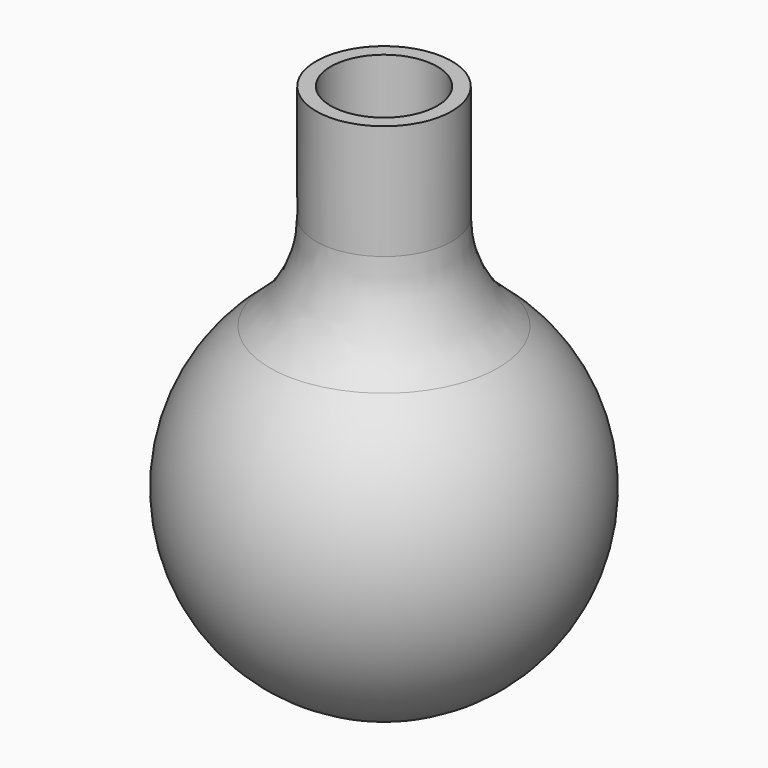
from build123d import *

# Parameters (mm, degrees)
F2_R = 25.4


with BuildPart() as f1:
    # F0 (on Right) → F1 (revolve)
    with BuildSketch(Plane.YZ):
        with BuildLine():
            Line((-13.977719, 0), (0, 0))
            Line((0, 0), (0, 3))
            Line((0, 3), (-13.387913, 3))
            ThreePointArc((-13.387913, 3), (-34.657963, 34.648403), (-13.977719, 66.685318))
            Line((-13.977719, 66.685318), (-13.977719, 12))
            Line((-13.977719, 12), (-10.977719, 12))
            Line((-10.977719, 12), (-10.977719, 107.869832))
            Line((-10.977719, 107.869832), (-13.977719, 107.869832))
            Line((-13.977719, 107.869832), (-13.977719, 69.938758))
            ThreePointArc((-13.977719, 69.938758), (-37.659449, 34.969379), (-13.977719, 0))
        make_face()
    revolve(axis=Axis((0, 0, 1.5), (0, 0, 1)))

    # F2
    f2_edges = [f1.edges().sort_by_distance(p)[0] for p in [
        (0, 13.977719, 69.938758),
    ]]
    fillet(f2_edges, radius=F2_R)


solid = f1.part
